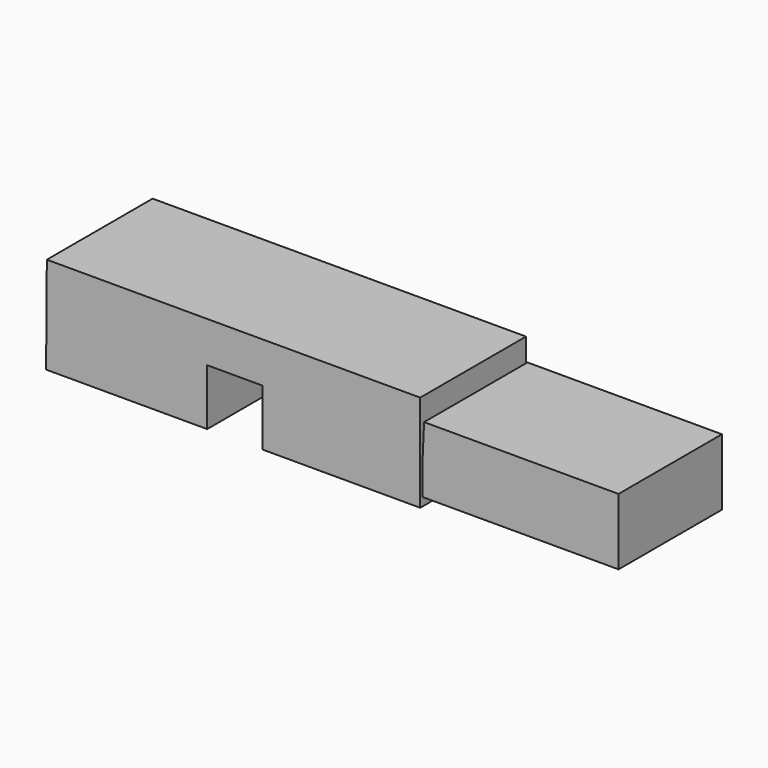
from build123d import *

# Parameters (mm, degrees)
F1_DEPTH = 27.240101
F3_DEPTH = 26.623553


with BuildPart() as f1:
    # F0 (on Front) → F1 (new body)
    with BuildSketch(Plane.XZ):
        Polygon((13.598486, 27.359452), (-63.320525, 27.359452), (-63.473985, 7.373013), (-30.289939, 7.373013), (-30.289939, 18.968908), (-18.932991, 18.968908), (-18.932991, 7.373013), (13.598486, 7.373013), align=None)
    extrude(amount=F1_DEPTH)

    # F2 (on Front) → F3 (join)
    with BuildSketch(Plane.XZ):
        Polygon((53.957671, 22.765324), (13.904811, 22.765324), (13.282296, 9.080417), (53.957671, 9.080417), align=None)
        Polygon((53.957671, 22.765324), (13.904811, 22.765324), (13.282296, 9.080417), (53.957671, 9.080417), align=None)
    extrude(amount=F3_DEPTH)


solid = f1.part
